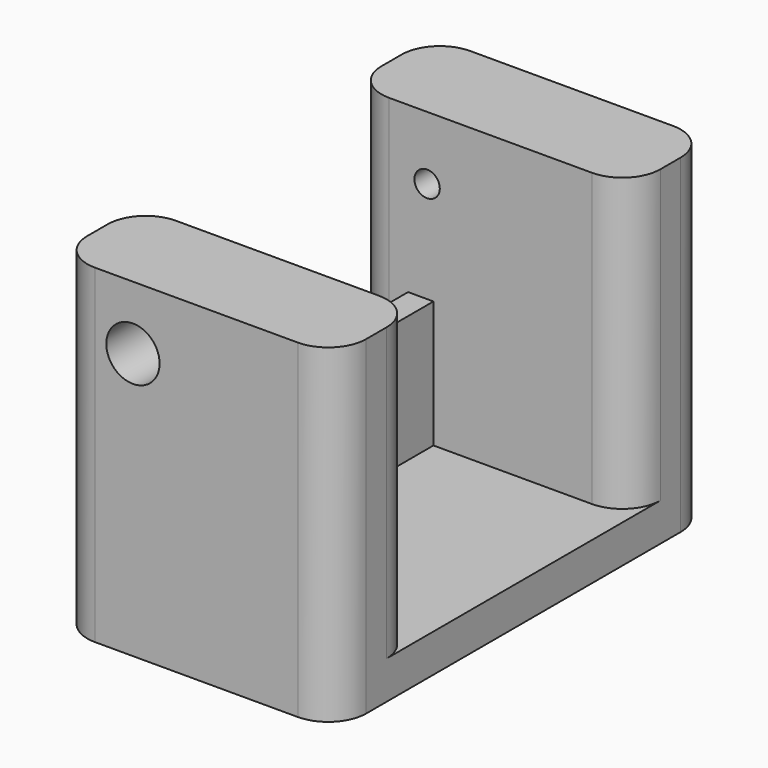
from build123d import *

# Parameters (mm, degrees)
CYLINDER027_R     = 0.8
CYLINDER027_DEPTH = 12
CYLINDER028_R     = 0.8
CYLINDER028_DEPTH = 12
CYLINDER029_R     = 0.8
CYLINDER029_DEPTH = 12
CYLINDER039_R     = 1
CYLINDER039_DEPTH = 45
CYLINDER040_R     = 2.1
CYLINDER040_DEPTH = 8
CYLINDER041_R     = 2.1
CYLINDER041_DEPTH = 8
CYLINDER026_R     = 0.8
CYLINDER026_DEPTH = 12
BOX043_W          = 2
BOX043_H          = 23
BOX043_DEPTH      = 13
BOX042_W          = 25
BOX042_H          = 21
BOX042_DEPTH      = 28
BOX030_W          = 22
BOX030_H          = 37
BOX030_DEPTH      = 26
FILLET002024_R    = 3
FILLET002034_R    = 3


with BuildPart() as obj1:
    # Cylinder027 → Cylinder027 (new body)
    with BuildSketch(Plane(origin=(54, 47, 0), x_dir=(1, 0, 0), z_dir=(0, 0, 1))):
        Circle(CYLINDER027_R)
    extrude(amount=CYLINDER027_DEPTH)


with BuildPart() as obj2:
    # Cylinder028 → Cylinder028 (new body)
    with BuildSketch(Plane(origin=(42, 76, 0), x_dir=(1, 0, 0), z_dir=(0, 0, 1))):
        Circle(CYLINDER028_R)
    extrude(amount=CYLINDER028_DEPTH)


with BuildPart() as obj3:
    # Cylinder029 → Cylinder029 (new body)
    with BuildSketch(Plane(origin=(54, 76, 0), x_dir=(1, 0, 0), z_dir=(0, 0, 1))):
        Circle(CYLINDER029_R)
    extrude(amount=CYLINDER029_DEPTH)


with BuildPart() as obj4:
    # Cylinder039 → Cylinder039 (new body)
    with BuildSketch(Plane(origin=(42, 40, 26), x_dir=(1, 0, 0), z_dir=(0, 1, 0))):
        Circle(CYLINDER039_R)
    extrude(amount=CYLINDER039_DEPTH)


with BuildPart() as obj5:
    # Cylinder040 → Cylinder040 (new body)
    with BuildSketch(Plane(origin=(42, 41, 26), x_dir=(1, 0, 0), z_dir=(0, 1, 0))):
        Circle(CYLINDER040_R)
    extrude(amount=CYLINDER040_DEPTH)


with BuildPart() as obj6:
    # Cylinder041 → Cylinder041 (new body)
    with BuildSketch(Plane(origin=(42, 74, 26), x_dir=(1, 0, 0), z_dir=(0, 1, 0))):
        Circle(CYLINDER041_R)
    extrude(amount=CYLINDER041_DEPTH)


with BuildPart() as fusion029:
    # Cylinder026 → Cylinder026 (new body)
    with BuildSketch(Plane(origin=(42, 47, 0), x_dir=(1, 0, 0), z_dir=(0, 0, 1))):
        Circle(CYLINDER026_R)
    extrude(amount=CYLINDER026_DEPTH)

    # Fusion029: union obj1, obj2, obj3, obj4, obj5, obj6
    add(obj1.part)
    add(obj2.part)
    add(obj3.part)
    add(obj4.part)
    add(obj5.part)
    add(obj6.part)


with BuildPart() as cube036:
    # Box043 → Box043 (new body)
    with BuildSketch(Plane(origin=(40.5, 50, 5), x_dir=(1, 0, 0), z_dir=(0, 0, 1))):
        with Locations((1, 11.5)):
            Rectangle(BOX043_W, BOX043_H)
    extrude(amount=BOX043_DEPTH)


with BuildPart() as cube035:
    # Box042 → Box042 (new body)
    with BuildSketch(Plane(origin=(35, 51, 8), x_dir=(1, 0, 0), z_dir=(0, 0, 1))):
        with Locations((12.5, 10.5)):
            Rectangle(BOX042_W, BOX042_H)
    extrude(amount=BOX042_DEPTH)


with BuildPart() as obj7:
    # Box030 → Box030 (new body)
    with BuildSketch(Plane(origin=(36, 43, 5), x_dir=(1, 0, 0), z_dir=(0, 0, 1))):
        with Locations((11, 18.5)):
            Rectangle(BOX030_W, BOX030_H)
    extrude(amount=BOX030_DEPTH)

    # Fillet002024
    fillet002024_edges = [obj7.edges().sort_by_distance(p)[0] for p in [
        (36, 43, 18),
        (36, 80, 18),
        (58, 43, 18),
        (58, 80, 18),
    ]]
    fillet(fillet002024_edges, radius=FILLET002024_R)

    # Cut007: cut Cube035
    add(cube035.part, mode=Mode.SUBTRACT)

    # Fusion028: union Cube036
    add(cube036.part)

    # Fillet002034
    fillet002034_edges = [obj7.edges().sort_by_distance(p)[0] for p in [
        (36, 51, 19.5),
        (36, 72, 19.5),
        (58, 51, 19.5),
        (58, 72, 19.5),
    ]]
    fillet(fillet002034_edges, radius=FILLET002034_R)

    # Cut008: cut Fusion029
    add(fusion029.part, mode=Mode.SUBTRACT)


solid = obj7.part
